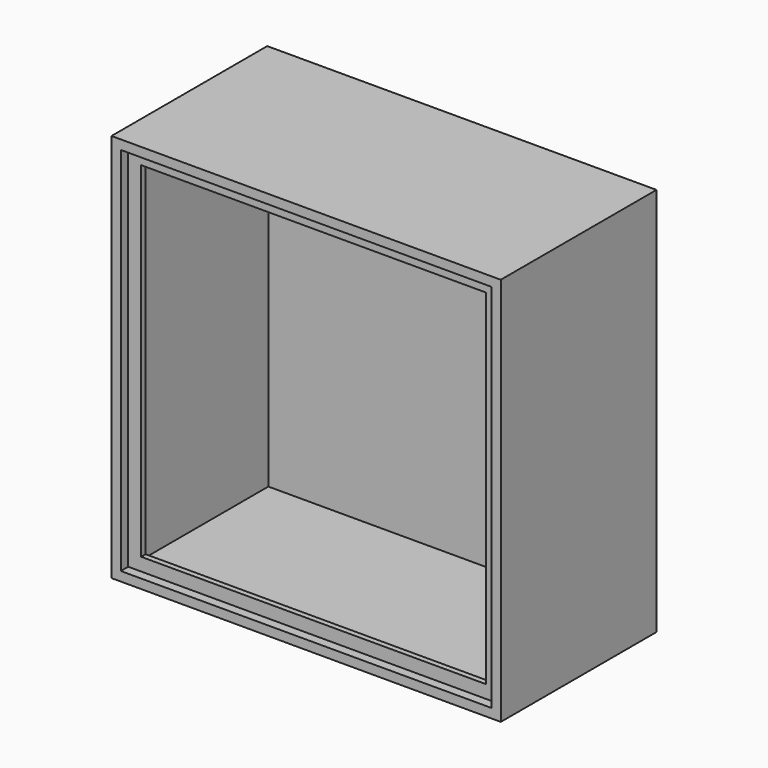
from build123d import *

# Parameters (mm, degrees)
F0_W      = 420
F0_H      = 420
F1_DEPTH  = 105
F2_T      = -6
F3_W      = 6
F3_H      = 408
F4_DEPTH  = 18
F5_W      = 6
F5_H      = 408
F6_DEPTH  = 18
F7_W      = 6
F7_H      = 18
F8_DEPTH  = 372
F9_W      = 6
F9_H      = 18
F10_DEPTH = 372
F11_W     = 408
F11_H     = 408
F11_W_2   = 400
F11_H_2   = 400
F12_DEPTH = 10


with BuildPart() as f1:
    # F0 (on Front) → F1 (new body, symmetric)
    with BuildSketch(Plane.XZ):
        Rectangle(F0_W, F0_H)
    extrude(amount=F1_DEPTH, both=True)

    # F2
    f2_openings = [f1.faces().sort_by_distance(p)[0] for p in [
        (0, -105, 0),
    ]]
    offset(amount=F2_T, openings=f2_openings)

    # F3 (on face) → F4 (join)
    with BuildSketch(Plane.YZ.offset(-204)):
        with Locations((-92, 0)):
            Rectangle(F3_W, F3_H)
    extrude(amount=F4_DEPTH)

    # F5 (on face) → F6 (join)
    with BuildSketch(Plane(origin=(204, 0, 0), x_dir=(0, -1, 0), z_dir=(-1, 0, 0))):
        with Locations((92, 0)):
            Rectangle(F5_W, F5_H)
    extrude(amount=F6_DEPTH)

    # F7 (on face) → F8 (join, through all)
    with BuildSketch(Plane.YZ.offset(-186)):
        with Locations((-92, 195)):
            Rectangle(F7_W, F7_H)
    extrude(amount=F8_DEPTH)

    # F9 (on face) → F10 (join, through all)
    with BuildSketch(Plane.YZ.offset(-186)):
        with Locations((-92, -195)):
            Rectangle(F9_W, F9_H)
    extrude(amount=F10_DEPTH)

    # F11 (on face) → F12 (join)
    with BuildSketch(Plane.XZ.offset(95)):
        Rectangle(F11_W, F11_H)
        Rectangle(F11_W_2, F11_H_2, mode=Mode.SUBTRACT)
    extrude(amount=F12_DEPTH)


solid = f1.part
